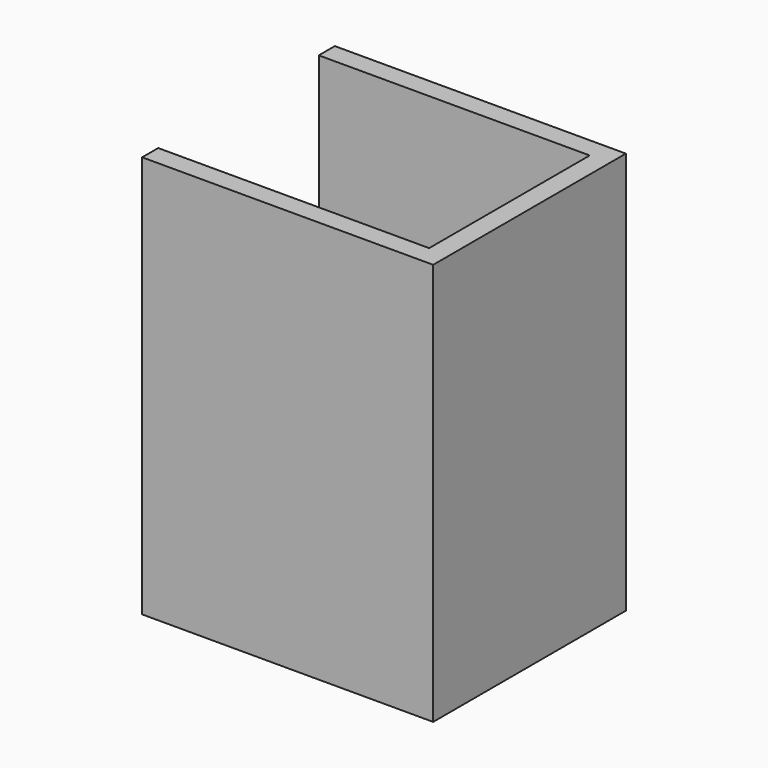
from build123d import *

# Parameters (mm, degrees)
F0_W     = 29
F0_H     = 24
F0_W_2   = 25
F0_H_2   = 20
F1_DEPTH = 38.1
F2_DEPTH = 2
F3_W     = 20
F3_H     = 38.1
F4_DEPTH = 2


with BuildPart() as f1:
    # F0 (on Top) → F1 (new body)
    with BuildSketch(Plane.XY):
        Rectangle(F0_W, F0_H)
        Rectangle(F0_W_2, F0_H_2, mode=Mode.SUBTRACT)
    extrude(amount=F1_DEPTH)

    # F0 (on Top) → F2 (join)
    with BuildSketch(Plane.XY):
        Rectangle(F0_W, F0_H)
        Rectangle(F0_W_2, F0_H_2, mode=Mode.SUBTRACT)
        Rectangle(F0_W_2, F0_H_2)
    extrude(amount=-F2_DEPTH)

    # F3 (on face) → F4 (cut)
    with BuildSketch(Plane(origin=(-14.5, 0, 0), x_dir=(0, -1, 0), z_dir=(-1, 0, 0))):
        with Locations((0, 19.05)):
            Rectangle(F3_W, F3_H)
    extrude(amount=-F4_DEPTH, mode=Mode.SUBTRACT)


solid = f1.part
